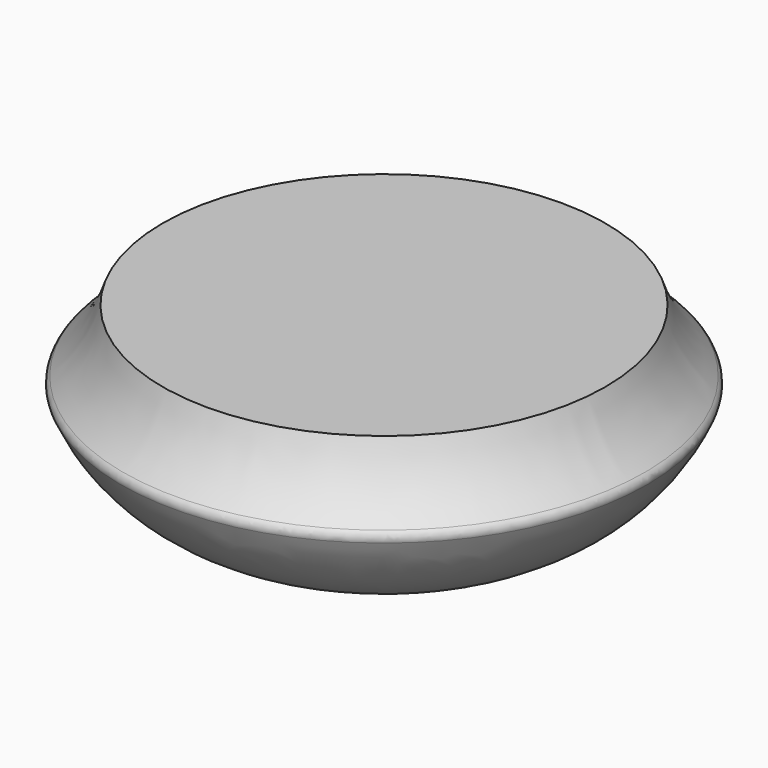
from build123d import *

# Parameters (mm, degrees)
F2_R = 5.08


with BuildPart() as f1:
    # F0 (on Front) → F1 (revolve)
    with BuildSketch(Plane.XZ):
        with BuildLine():
            Line((-76.2, 0), (0, 0))
            Line((0, 0), (0, 101.6))
            Line((0, 101.6), (-127, 101.6))
            ThreePointArc((-127, 101.6), (-136.816533, 80.627689), (-152.4, 63.5))
            ThreePointArc((-152.4, 63.5), (-122.33283, 22.110604), (-76.2, 0))
        make_face()
    revolve(axis=Axis((0, 0, 50.8), (0, 0, 1)))

    # F2
    f2_edges = [f1.edges().sort_by_distance(p)[0] for p in [
        (152.4, 0, 63.5),
    ]]
    fillet(f2_edges, radius=F2_R)


solid = f1.part
